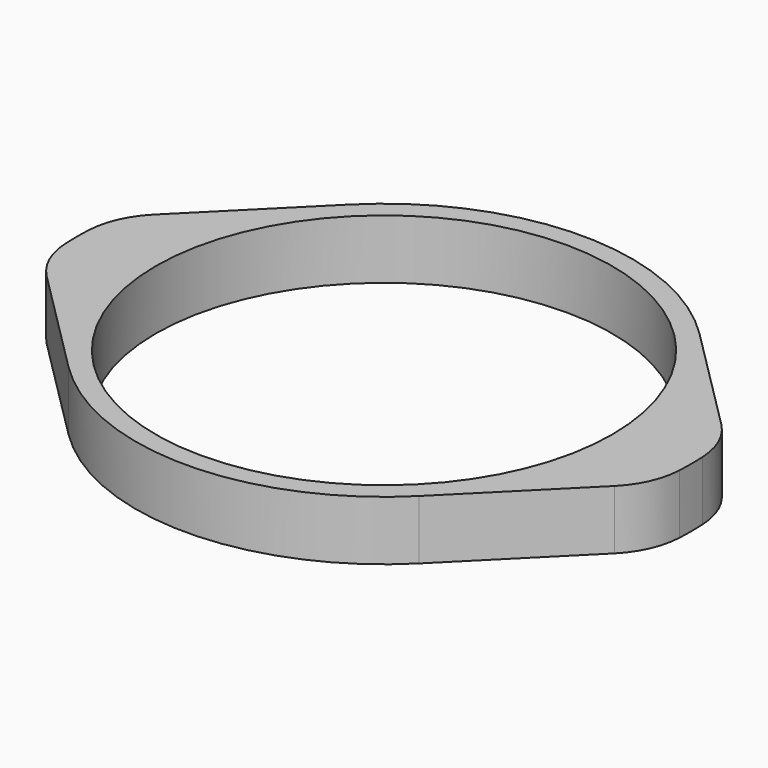
from build123d import *

# Parameters (mm, degrees)
F0_R     = 57.65
F1_DEPTH = 15


with BuildPart() as f1:
    # F0 (on Top) → F1 (new body)
    with BuildSketch(Plane.XY):
        with BuildLine():
            Line((71.727416, 16.873064), (44.30024, 44.30024))
            ThreePointArc((44.30024, 44.30024), (0, 62.65), (-44.30024, 44.30024))
            Line((-44.30024, 44.30024), (-71.727416, 16.873064))
            ThreePointArc((-71.727416, 16.873064), (-75.876353, 10.82022), (-77.562828, 3.678344))
            ThreePointArc((-77.562828, 3.678344), (-77.65, 0), (-77.562828, -3.678344))
            ThreePointArc((-77.562828, -3.678344), (-75.876353, -10.82022), (-71.727416, -16.873064))
            Line((-71.727416, -16.873064), (-44.30024, -44.30024))
            ThreePointArc((-44.30024, -44.30024), (0, -62.65), (44.30024, -44.30024))
            Line((44.30024, -44.30024), (71.727416, -16.873064))
            ThreePointArc((71.727416, -16.873064), (75.876353, -10.82022), (77.562828, -3.678344))
            ThreePointArc((77.562828, -3.678344), (77.65, 0), (77.562828, 3.678344))
            ThreePointArc((77.562828, 3.678344), (75.876353, 10.82022), (71.727416, 16.873064))
        make_face()
        Circle(F0_R, mode=Mode.SUBTRACT)
    extrude(amount=F1_DEPTH)


solid = f1.part
